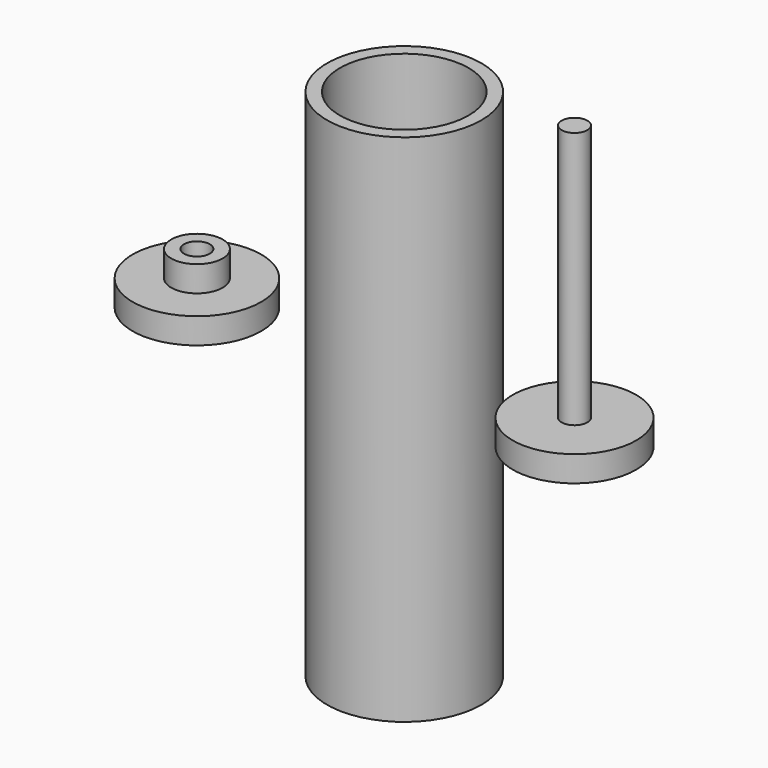
from build123d import *

# Parameters (mm, degrees)
F0_R      = 15
F1_DEPTH  = 50
F2_R      = 12.5
F3_DEPTH  = 85
F4_R      = 12
F5_DEPTH  = 5
F6_R      = 2.5
F7_DEPTH  = 50
F8_R      = 12.5
F9_DEPTH  = 5
F10_R     = 5
F11_DEPTH = 5
F12_R     = 2.5
F13_DEPTH = 10


with BuildPart() as f1:
    # F0 (on Top) → F1 (new body, symmetric)
    with BuildSketch(Plane.XY):
        Circle(F0_R)
    extrude(amount=F1_DEPTH, both=True)

    # F2 (on face) → F3 (cut)
    with BuildSketch(Plane.XY.offset(50)):
        Circle(F2_R)
    extrude(amount=-F3_DEPTH, mode=Mode.SUBTRACT)


with BuildPart() as f5:
    # F4 (on Top) → F5 (new body)
    with BuildSketch(Plane.XY):
        with Locations((33.077261, 0)):
            Circle(F4_R)
    extrude(amount=F5_DEPTH)

    # F6 (on face) → F7 (join)
    with BuildSketch(Plane.XY.offset(5)):
        with Locations((33.077261, 0)):
            Circle(F6_R)
    extrude(amount=F7_DEPTH)


with BuildPart() as f9:
    # F8 (on Top) → F9 (new body)
    with BuildSketch(Plane.XY):
        with Locations((-40.28576, 0)):
            Circle(F8_R)
    extrude(amount=F9_DEPTH)

    # F10 (on face) → F11 (join)
    with BuildSketch(Plane.XY.offset(5)):
        with Locations((-40.28576, 0)):
            Circle(F10_R)
    extrude(amount=F11_DEPTH)

    # F12 (on face) → F13 (cut)
    with BuildSketch(Plane.XY.offset(10)):
        with Locations((-40.28576, 0)):
            Circle(F12_R)
    extrude(amount=-F13_DEPTH, mode=Mode.SUBTRACT)


solid = Compound([f1.part, f5.part, f9.part])
